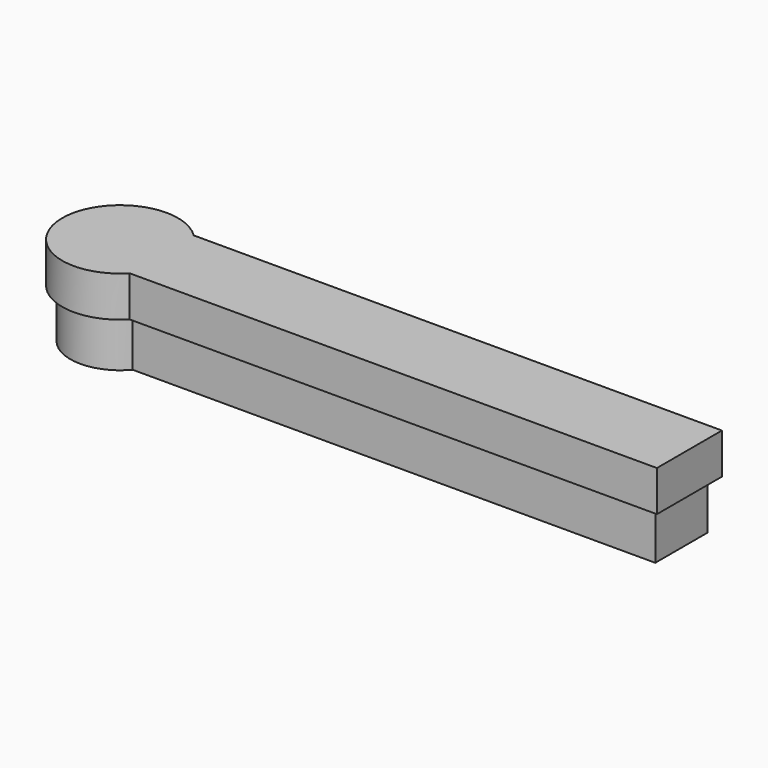
from build123d import *

# Parameters (mm, degrees)
F1_DEPTH = 12.7
F2_T     = -2.54
F4_DEPTH = 25.4


with BuildPart() as f1:
    # F0 (on Top) → F1 (new body)
    with BuildSketch(Plane.XY):
        with BuildLine():
            Line((0, -12.5342045865), (0, 12.8657954135))
            Line((0, 12.8657954135), (-165.0920747663, 12.8657954135))
            ThreePointArc((-165.0920747663, 12.8657954135), (-161.1142829028, 6.9718649096), (-159.7163041564, 0))
            ThreePointArc((-159.7163041564, 0), (-161.0258711618, -6.756378992), (-164.7649023499, -12.5342045865))
            Line((-164.7649023499, -12.5342045865), (0, -12.5342045865))
        make_face()
        with BuildLine():
            ThreePointArc((-159.7163041564, 0), (-161.1142829028, 6.9718649096), (-165.0920747663, 12.8657954135))
            Line((-165.0920747663, 12.8657954135), (-177.8, 12.8657954135))
            Line((-177.8, 12.8657954135), (-177.8, -12.5342045865))
            Line((-177.8, -12.5342045865), (-164.7649023499, -12.5342045865))
            ThreePointArc((-164.7649023499, -12.5342045865), (-161.0258711618, -6.756378992), (-159.7163041564, 0))
        make_face()
        with BuildLine():
            Line((-177.8, 12.8657954135), (-165.0920747663, 12.8657954135))
            ThreePointArc((-165.0920747663, 12.8657954135), (-195.8821958511, -0.232913217), (-164.7649023499, -12.5342045865))
            Line((-164.7649023499, -12.5342045865), (-177.8, -12.5342045865))
            Line((-177.8, -12.5342045865), (-177.8, 12.8657954135))
        make_face()
    extrude(amount=-F1_DEPTH)

    # F2
    f2_openings = [f1.faces().sort_by_distance(p)[0] for p in [
        (-100.144903, 0.13551, -12.7),
    ]]
    offset(amount=F2_T, openings=f2_openings, kind=Kind.INTERSECTION)

    # F4 (add): a face of the model
    f4_faces = [f1.faces().sort_by_distance(p)[0] for p in [
        (-100.8594782895, 0.1367235589, -2.54),
    ]]
    extrude(f4_faces, amount=F4_DEPTH)


solid = f1.part
